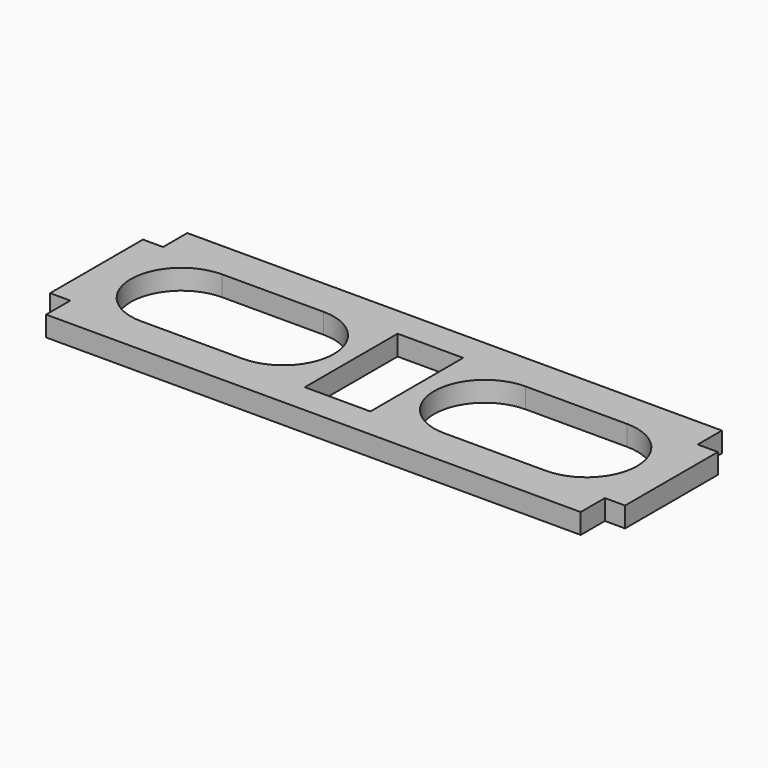
from build123d import *

# Parameters (mm, degrees)
SKETCH_W     = 114
SKETCH_H     = 35
SKETCH_W_2   = 13
SKETCH_H_2   = 23
PAD_DEPTH    = 4
SKETCH001_W  = 4
SKETCH001_H  = 6
POCKET_DEPTH = 5


with BuildPart() as part:
    # Sketch → Pad (new body)
    with BuildSketch(Plane.XY):
        Rectangle(SKETCH_W, SKETCH_H)
        Rectangle(SKETCH_W_2, SKETCH_H_2, mode=Mode.SUBTRACT)
        with BuildLine():
            ThreePointArc((-40.139128, 10.054315), (-50.193443, 0), (-40.139128, -10.054315))
            Line((-40.139128, -10.054315), (-20, -10.054315))
            ThreePointArc((-20, -10.054315), (-9.945685, 0), (-20, 10.054315))
            Line((-20, 10.054315), (-40.139128, 10.054315))
        make_face(mode=Mode.SUBTRACT)
        with BuildLine():
            ThreePointArc((20, 10.054315), (9.945685, 0), (20, -10.054315))
            Line((20, -10.054315), (40.139128, -10.054315))
            ThreePointArc((40.139128, -10.054315), (50.193443, 0), (40.139128, 10.054315))
            Line((40.139128, 10.054315), (20, 10.054315))
        make_face(mode=Mode.SUBTRACT)
    extrude(amount=PAD_DEPTH)

    # Sketch001 (on Face18 of Pad) → Pocket (cut)
    with BuildSketch(Plane.XY.offset(4)):
        with Locations((-55, 14.5)):
            Rectangle(SKETCH001_W, SKETCH001_H)
        with Locations((-55, -14.5)):
            Rectangle(SKETCH001_W, SKETCH001_H)
        with Locations((55, -14.5)):
            Rectangle(SKETCH001_W, SKETCH001_H)
        with Locations((55, 14.5)):
            Rectangle(SKETCH001_W, SKETCH001_H)
    extrude(amount=-POCKET_DEPTH, mode=Mode.SUBTRACT)


solid = part.part
